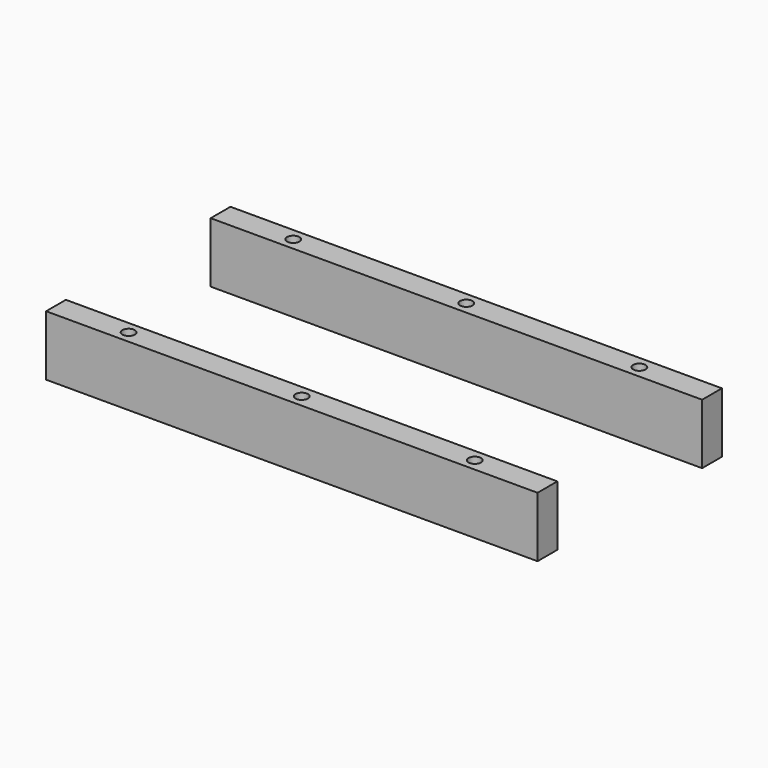
from build123d import *

# Parameters (mm, degrees)
F0_W     = 504.825
F0_H     = 25.4
F0_R     = 6.35
F1_DEPTH = 61.9125
F2_DEPTH = 36.5125


with BuildPart() as f1:
    # F0 (on Top) → F1 (new body)
    with BuildSketch(Plane.XY):
        with Locations((-17.9268002128, 47.4536679604)):
            Rectangle(F0_W, F0_H)
        with Locations((-195.7268002128, 47.4536679604)):
            Circle(F0_R, mode=Mode.SUBTRACT)
        with Locations((-17.9268002128, 47.4536679604)):
            Circle(F0_R, mode=Mode.SUBTRACT)
        with Locations((159.8731997872, 47.4536679604)):
            Circle(F0_R, mode=Mode.SUBTRACT)
    extrude(amount=F1_DEPTH)

    # F0 (on Top) → F2 (join)
    with BuildSketch(Plane.XY):
        with Locations((-195.7268002128, 47.4536679604)):
            Circle(F0_R)
        with Locations((-17.9268002128, 47.4536679604)):
            Circle(F0_R)
        with Locations((159.8731997872, 47.4536679604)):
            Circle(F0_R)
    extrude(amount=F2_DEPTH)


with BuildPart() as f1b:
    # F0 (on Top) → F1, piece 2 (new body)
    with BuildSketch(Plane.XY):
        with Locations((-20.0401226521, -161.215207386)):
            Rectangle(F0_W, F0_H)
        with Locations((-197.8401226521, -161.215207386)):
            Circle(F0_R, mode=Mode.SUBTRACT)
        with Locations((-20.0401226521, -161.215207386)):
            Circle(F0_R, mode=Mode.SUBTRACT)
        with Locations((157.7598773479, -161.215207386)):
            Circle(F0_R, mode=Mode.SUBTRACT)
    extrude(amount=F1_DEPTH)

    # F0 (on Top) → F2, piece 2 (join)
    with BuildSketch(Plane.XY):
        with Locations((-197.8401226521, -161.215207386)):
            Circle(F0_R)
        with Locations((-20.0401226521, -161.215207386)):
            Circle(F0_R)
        with Locations((157.7598773479, -161.215207386)):
            Circle(F0_R)
    extrude(amount=F2_DEPTH)


solid = Compound([f1.part, f1b.part])
